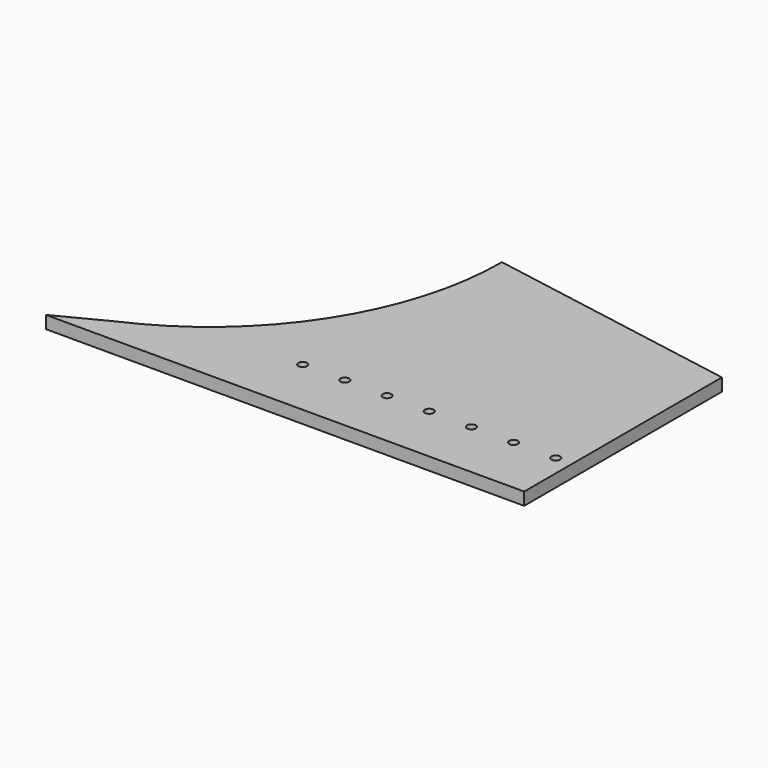
from build123d import *

# Parameters (mm, degrees)
F1_R     = 2.032
F2_DEPTH = 5.842


with BuildPart() as f2:
    # F1 (on face) → F2 (new body)
    with BuildSketch(Plane.XY):
        with BuildLine():
            Line((254, -20.800026), (135.382, 0))
            ThreePointArc((135.382, 0), (113.548513, -73.722595), (55.090365, -123.666235))
            Line((55.090365, -123.666235), (32.373808, -135.382))
            Line((32.373808, -135.382), (253.931671, -135.382))
            Line((253.931671, -135.382), (254, -135.382))
            Line((254, -135.382), (254, -20.800026))
        make_face()
        with Locations((129.191592, -107.723273)):
            Circle(F1_R, mode=Mode.SUBTRACT)
        with Locations((148.749592, -107.723273)):
            Circle(F1_R, mode=Mode.SUBTRACT)
        with Locations((168.307592, -107.723273)):
            Circle(F1_R, mode=Mode.SUBTRACT)
        with Locations((187.865592, -107.723273)):
            Circle(F1_R, mode=Mode.SUBTRACT)
        with Locations((207.423592, -107.723273)):
            Circle(F1_R, mode=Mode.SUBTRACT)
        with Locations((226.981592, -107.723273)):
            Circle(F1_R, mode=Mode.SUBTRACT)
        with Locations((246.532425, -107.723273)):
            Circle(F1_R, mode=Mode.SUBTRACT)
    extrude(amount=F2_DEPTH)


solid = f2.part
